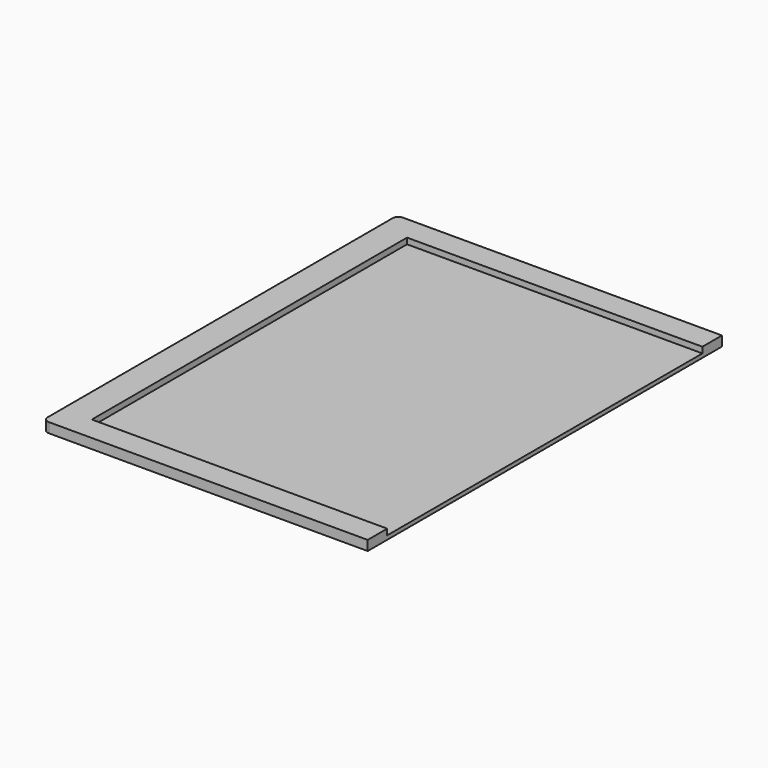
from build123d import *

# Parameters (mm, degrees)
SKETCH_W     = 165
SKETCH_H     = 225
PAD_DEPTH    = 5
SKETCH001_W  = 150.1
SKETCH001_H  = 200.2
POCKET_DEPTH = 3
FILLET_R     = 3


with BuildPart() as part:
    # Sketch (on XY_Plane001 of Origin002) → Pad (new body)
    with BuildSketch(Plane.XY):
        Rectangle(SKETCH_W, SKETCH_H)
    extrude(amount=PAD_DEPTH)

    # Sketch001 (on Face6 of Pad) → Pocket (cut)
    with BuildSketch(Plane.XY.offset(5)):
        with Locations((7.45, 0)):
            Rectangle(SKETCH001_W, SKETCH001_H)
    extrude(amount=-POCKET_DEPTH, mode=Mode.SUBTRACT)

    # Fillet
    fillet_edges = [part.edges().sort_by_distance(p)[0] for p in [
        (-82.5, 112.5, 2.5),
        (-82.5, -112.5, 2.5),
    ]]
    fillet(fillet_edges, radius=FILLET_R)


solid = part.part
